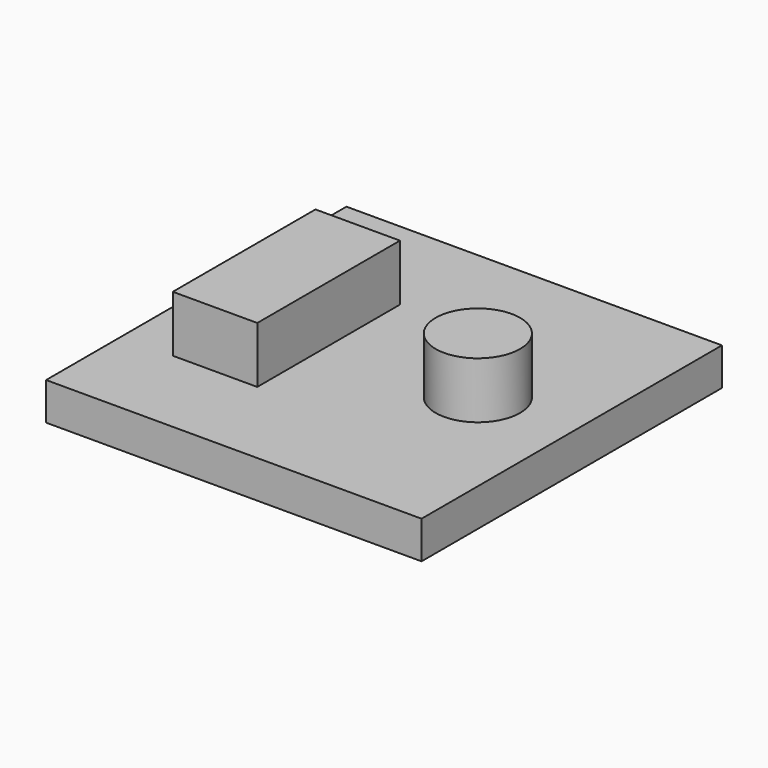
from build123d import *

# Parameters (mm, degrees)
F0_W     = 20
F0_H     = 20
F0_W_2   = 4.5
F0_H_2   = 9.5
F0_R     = 2.25
F1_DEPTH = 2
F2_DEPTH = 5


with BuildPart() as f1:
    # F0 (on Top) → F1 (new body)
    with BuildSketch(Plane.XY):
        Rectangle(F0_W, F0_H)
        with Locations((-5, -0.25)):
            Rectangle(F0_W_2, F0_H_2, mode=Mode.SUBTRACT)
        with Locations((5, 0)):
            Circle(F0_R, mode=Mode.SUBTRACT)
    extrude(amount=F1_DEPTH)

    # F0 (on Top) → F2 (join)
    with BuildSketch(Plane.XY):
        with Locations((-5, -0.25)):
            Rectangle(F0_W_2, F0_H_2)
        with Locations((5, 0)):
            Circle(F0_R)
    extrude(amount=F2_DEPTH)


solid = f1.part
